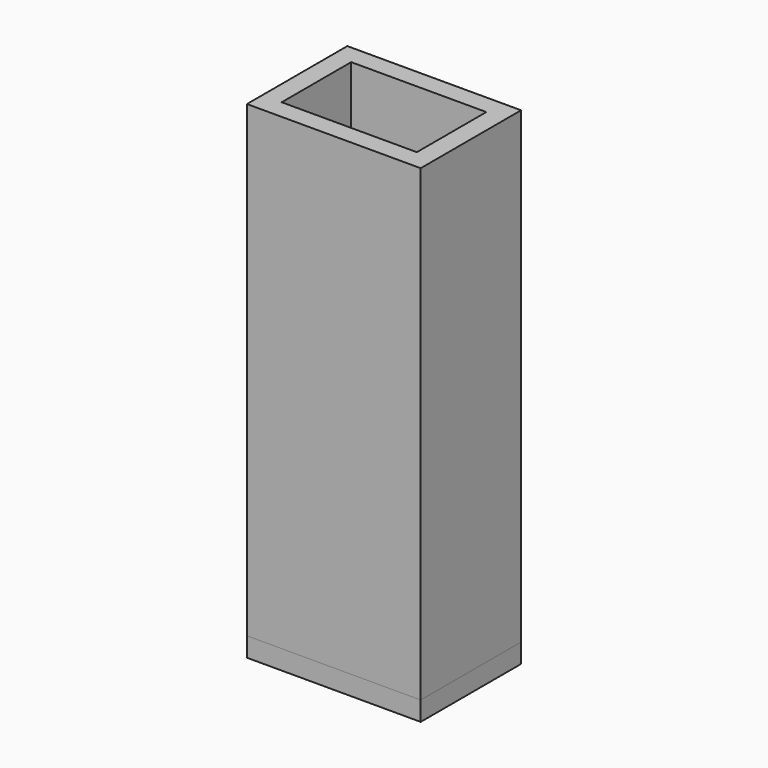
from build123d import *

# Parameters (mm, degrees)
F0_W     = 18
F0_H     = 13
F0_W_2   = 14
F0_H_2   = 9
F1_DEPTH = 48.5
F2_DEPTH = 2


with BuildPart() as f1:
    # F0 (on Top) → F1 (new body)
    with BuildSketch(Plane.XY):
        Rectangle(F0_W, F0_H)
        Rectangle(F0_W_2, F0_H_2, mode=Mode.SUBTRACT)
    extrude(amount=F1_DEPTH)


with BuildPart() as f2:
    # F0 (on Top) → F2 (new body)
    with BuildSketch(Plane.XY):
        Rectangle(F0_W, F0_H)
        Rectangle(F0_W_2, F0_H_2, mode=Mode.SUBTRACT)
        Rectangle(F0_W_2, F0_H_2)
    extrude(amount=-F2_DEPTH)


solid = Compound([f1.part, f2.part])
